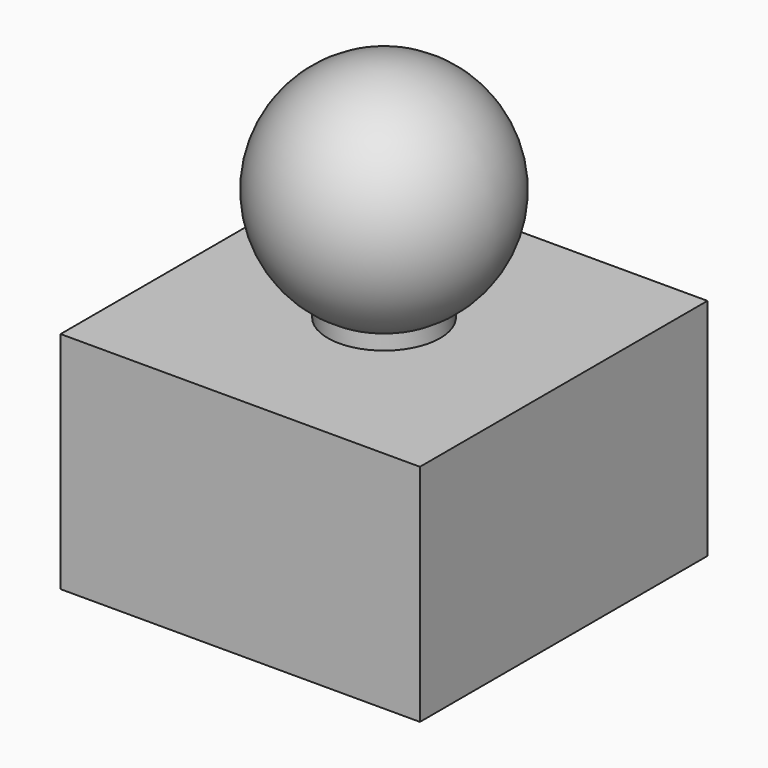
from build123d import *

# Parameters (mm, degrees)
BOX001_W       = 10
BOX001_H       = 10
BOX001_DEPTH   = 8
CYLINDER_R     = 2.5
CYLINDER_DEPTH = 5
BOX_W          = 16
BOX_H          = 16
BOX_DEPTH      = 10


with BuildPart() as cube001:
    # Box001 → Box001 (new body)
    with BuildSketch(Plane(origin=(-5, -5, 0), x_dir=(1, 0, 0), z_dir=(0, 0, 1))):
        with Locations((5, 5)):
            Rectangle(BOX001_W, BOX001_H)
    extrude(amount=BOX001_DEPTH)


with BuildPart() as cylinder:
    # Cylinder → Cylinder (new body)
    with BuildSketch(Plane.XY.offset(10)):
        Circle(CYLINDER_R)
    extrude(amount=CYLINDER_DEPTH)


with BuildPart() as sphere:
    # Sphere → Sphere (revolve)
    with BuildSketch(Plane(origin=(0, 0, 15), x_dir=(1, 0, 0), z_dir=(0, -1, 0))):
        with BuildLine():
            ThreePointArc((0, -5), (5, 0), (0, 5))
            Line((0, 5), (0, -5))
        make_face()
    revolve(axis=Axis((0, 0, 15), (0, 0, 1)))


with BuildPart() as cut:
    # Box → Box (new body)
    with BuildSketch(Plane(origin=(-8, -8, 0), x_dir=(1, 0, 0), z_dir=(0, 0, 1))):
        with Locations((8, 8)):
            Rectangle(BOX_W, BOX_H)
    extrude(amount=BOX_DEPTH)

    # Fusion: union Cylinder, Sphere
    add(cylinder.part)
    add(sphere.part)

    # Cut: cut Cube001
    add(cube001.part, mode=Mode.SUBTRACT)


solid = cut.part
